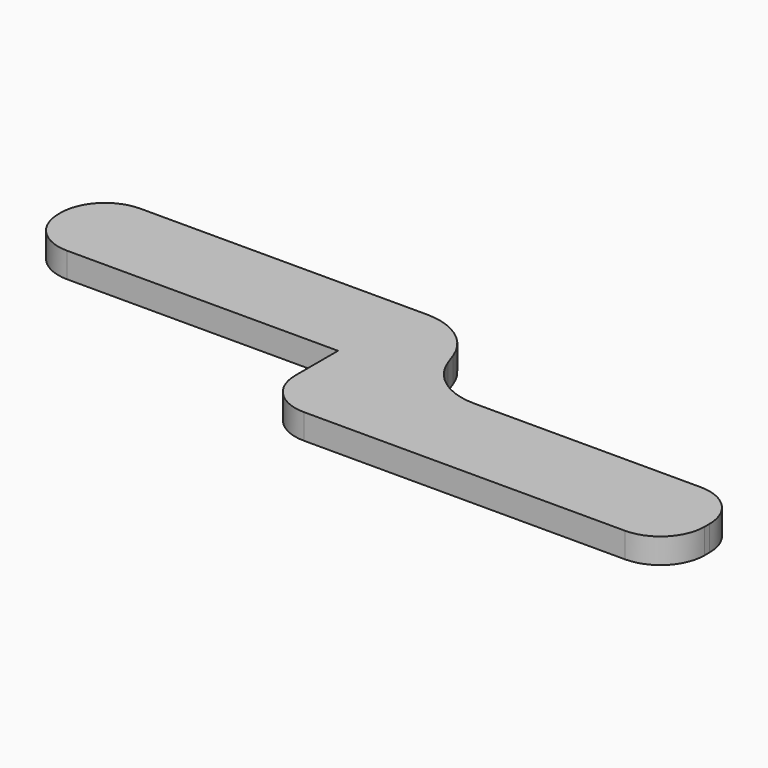
from build123d import *

# Parameters (mm, degrees)
F1_DEPTH = 2.54


with BuildPart() as f1:
    # F0 (on Top) → F1 (new body, symmetric)
    with BuildSketch(Plane.XY):
        with BuildLine():
            ThreePointArc((-63.5, 8.89), (-60.896179, 2.603821), (-54.61, 0))
            Line((-54.61, 0), (0, 0))
            Line((0, 0), (0, -10.795))
            ThreePointArc((0, -10.795), (2.603821, -17.081179), (8.89, -19.685))
            Line((8.89, -19.685), (73.66, -19.685))
            ThreePointArc((73.66, -19.685), (79.946179, -17.081179), (82.55, -10.795))
            Line((82.55, -10.795), (82.55, -9.525))
            ThreePointArc((82.55, -9.525), (79.946179, -3.238821), (73.66, -0.635))
            Line((73.66, -0.635), (27.942636, -0.635))
            ThreePointArc((27.942636, -0.635), (20.658215, 1.661769), (16.008539, 7.721344))
            Line((16.008539, 7.721344), (15.157828, 10.058656))
            ThreePointArc((15.157828, 10.058656), (10.508152, 16.118231), (3.223731, 18.415))
            Line((3.223731, 18.415), (-54.61, 18.415))
            ThreePointArc((-54.61, 18.415), (-60.896179, 15.811179), (-63.5, 9.525))
            Line((-63.5, 9.525), (-63.5, 8.89))
        make_face()
    extrude(amount=F1_DEPTH, both=True)


solid = f1.part
